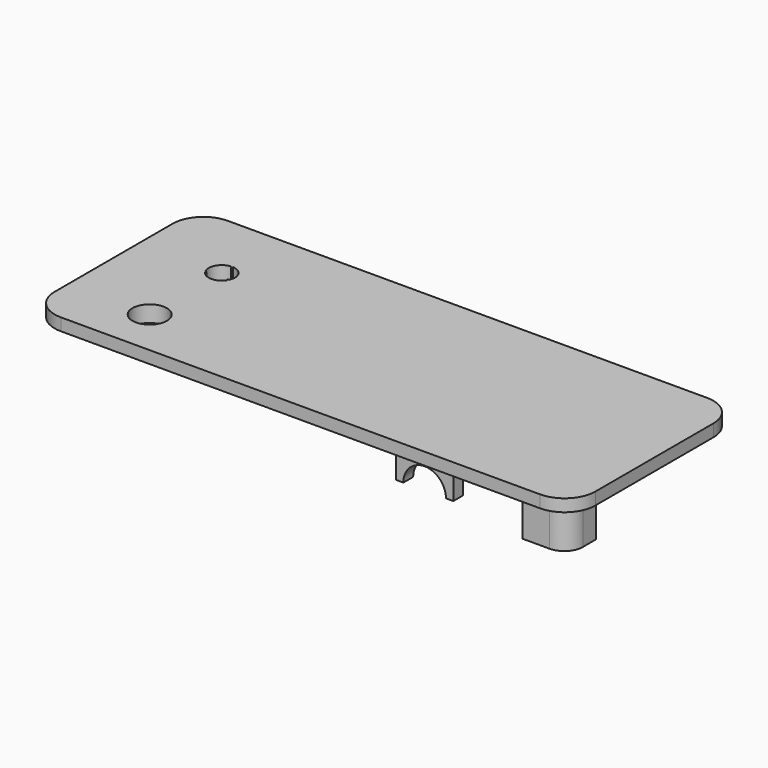
from build123d import *

# Parameters (mm, degrees)
PAD002_DEPTH  = 1.5
PAD003_DEPTH  = 0.5
SKETCH005_R   = 1.025
PAD004_DEPTH  = 4.6
SKETCH006_R   = 2.1
POCKET_DEPTH  = 2
SKETCH008_R   = 2
SKETCH008_R_2 = 1.6
PAD005_DEPTH  = 3
PAD014_DEPTH  = 1.5


with BuildPart() as part:
    # Sketch003 → Pad002 (new body)
    with BuildSketch(Plane.XY.offset(6)):
        with BuildLine():
            Line((-29.25, 12.75), (29.25, 12.75))
            ThreePointArc((33, 9), (31.9016504294, 11.6516504294), (29.25, 12.75))
            Line((33, 9), (33, -9))
            ThreePointArc((29.25, -12.75), (31.9016504295, -11.6516504294), (33, -9))
            Line((29.25, -12.75), (-29.25, -12.75))
            ThreePointArc((-33, -9), (-31.9016504294, -11.6516504295), (-29.25, -12.75))
            Line((-33, -9), (-33, 9))
            ThreePointArc((-29.25, 12.75), (-31.9016504294, 11.6516504294), (-33, 9))
        make_face()
    extrude(amount=PAD002_DEPTH)

    # Sketch004 → Pad003 (new body)
    with BuildSketch(Plane(origin=(0, 0, 6), x_dir=(1, 0, 0), z_dir=(0, 0, -1))):
        with BuildLine():
            Line((-29.05, 11.05), (29.05, 11.05))
            ThreePointArc((31.3, 8.8), (30.6409902577, 10.3909902577), (29.05, 11.05))
            Line((31.3, 8.8), (31.3, -8.8))
            ThreePointArc((29.05, -11.05), (30.6409902577, -10.3909902577), (31.3, -8.8))
            Line((29.05, -11.05), (-29.05, -11.05))
            ThreePointArc((-31.3, -8.8), (-30.6409902577, -10.3909902577), (-29.05, -11.05))
            Line((-31.3, -8.8), (-31.3, 8.8))
            ThreePointArc((-29.05, 11.05), (-30.6409902577, 10.3909902577), (-31.3, 8.8))
        make_face()
    extrude(amount=PAD003_DEPTH)

    # Sketch005 → Pad004 (new body)
    with BuildSketch(Plane(origin=(0, 0, 5.5), x_dir=(1, 0, 0), z_dir=(0, 0, -1))):
        with BuildLine():
            Line((-25.75, -9), (-25.75, -11.05))
            Line((-25.75, -11.05), (-29.05, -11.05))
            ThreePointArc((-31.3, -8.8), (-30.6409902577, -10.3909902577), (-29.05, -11.05))
            Line((-31.3, -6.75), (-31.3, -8.8))
            Line((-27.9999999649, -6.75), (-31.3, -6.75))
            ThreePointArc((-25.75, -9.0000000351), (-26.4090097175, -7.4090097671), (-27.9999999649, -6.75))
        make_face()
        with Locations((-28, -9)):
            Circle(SKETCH005_R, mode=Mode.SUBTRACT)
        with BuildLine():
            ThreePointArc((25.75, 9), (26.4090097423, 7.4090097423), (28, 6.75))
            Line((28, 6.75), (31.3, 6.75))
            Line((31.3, 8.8), (31.3, 6.75))
            ThreePointArc((31.3, 8.8), (30.6409902577, 10.3909902577), (29.05, 11.05))
            Line((29.05, 11.05), (25.75, 11.05))
            Line((25.75, 11.05), (25.75, 9))
        make_face()
        with Locations((28, 9)):
            Circle(SKETCH005_R, mode=Mode.SUBTRACT)
    extrude(amount=PAD004_DEPTH)

    # Sketch006 → Pocket (cut)
    with BuildSketch(Plane.XY.offset(7.5)):
        with Locations((-23, -7)):
            Circle(SKETCH006_R)
        with BuildLine():
            ThreePointArc((-24.3288922086, 3.1089076939), (-23.0026761128, 2.400002238), (-21.6740960519, 3.1044673539))
            ThreePointArc((-21.5638430432, 3.2946963807), (-21.7108688116, 3.2528448762), (-21.6740960519, 3.1044673539))
            ThreePointArc((-21.5638430432, 3.2946963807), (-21.6130238799, 4.7976824194), (-22.8873953748, 5.5960326433))
            ThreePointArc((-23.1072650483, 5.5964003913), (-22.9975078699, 5.4899979159), (-22.8873953748, 5.5960326433))
            ThreePointArc((-23.1072650483, 5.5964003913), (-24.3843000035, 4.8023175806), (-24.4385082583, 3.2995044678))
            ThreePointArc((-24.3288922086, 3.1089076939), (-24.2916233116, 3.2571613762), (-24.4385082583, 3.2995044678))
        make_face()
    extrude(amount=-POCKET_DEPTH, mode=Mode.SUBTRACT)

    # Sketch008 → Pad005 (new body)
    with BuildSketch(Plane(origin=(0, 0, 5.5), x_dir=(1, 0, 0), z_dir=(0, 0, -1))):
        with Locations((-23, -4)):
            Circle(SKETCH008_R)
        with Locations((-23, -4)):
            Circle(SKETCH008_R_2, mode=Mode.SUBTRACT)
    extrude(amount=PAD005_DEPTH)

    # Sketch023 → Pad014 (new body)
    with BuildSketch(Plane(origin=(0, -11.05, 6), x_dir=(1, 0, 0), z_dir=(0, -1, 0))):
        with BuildLine():
            Line((11.5, 0), (18.5, 0))
            Line((18.5, 0), (18.5, -2.8))
            Line((18.5, -2.8), (17.6, -2.8))
            ThreePointArc((17.6, -2.8000000001), (15, -0.2000000001), (12.4, -2.8))
            Line((12.4, -2.8), (11.5, -2.8))
            Line((11.5, -2.8), (11.5, 0))
        make_face()
    extrude(amount=PAD014_DEPTH)


solid = part.part
